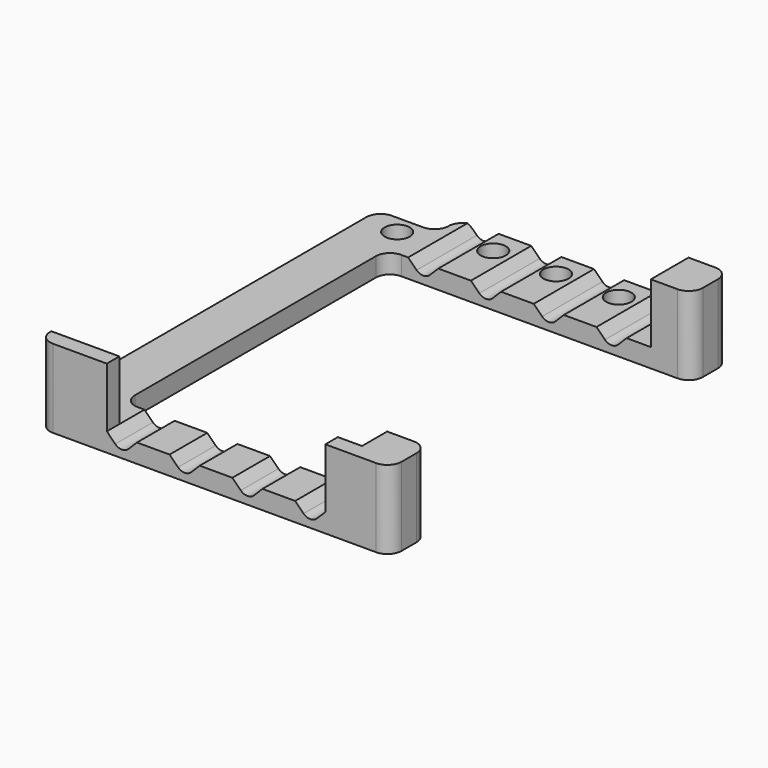
from build123d import *

# Parameters (mm, degrees)
F0_R     = 4
F1_DEPTH = 6
F3_DEPTH = 25
F4_DEPTH = 120.001
F6_DEPTH = 19


with BuildPart() as f1:
    # F0 (on Top) → F1 (new body)
    with BuildSketch(Plane.XY):
        with BuildLine():
            ThreePointArc((93, 139.5), (91.681981, 142.681981), (88.5, 144))
            Line((88.5, 144), (23.5, 144))
            ThreePointArc((23.5, 144), (20.318019, 142.681981), (19, 139.5))
            ThreePointArc((19, 139.5), (17.681981, 136.318019), (14.5, 135))
            Line((14.5, 135), (4.5, 135))
            ThreePointArc((4.5, 135), (1.318019, 133.681981), (0, 130.5))
            Line((0, 130.5), (0, 4.5))
            ThreePointArc((0, 4.5), (1.318019, 1.318019), (4.5, 0))
            Line((4.5, 0), (107.5, 0))
            ThreePointArc((107.5, 0), (110.681981, 1.318019), (112, 4.5))
            Line((112, 4.5), (112, 10.5))
            ThreePointArc((112, 10.5), (110.681981, 13.681981), (107.5, 15))
            Line((107.5, 15), (19.5, 15))
            ThreePointArc((19.5, 15), (16.318019, 16.318019), (15, 19.5))
            Line((15, 19.5), (15, 115.5))
            ThreePointArc((15, 115.5), (16.318019, 118.681981), (19.5, 120))
            Line((19.5, 120), (107.5, 120))
            ThreePointArc((107.5, 120), (110.681981, 121.318019), (112, 124.5))
            Line((112, 124.5), (112, 130.5))
            ThreePointArc((112, 130.5), (110.681981, 133.681981), (107.5, 135))
            Line((107.5, 135), (97.5, 135))
            ThreePointArc((97.5, 135), (94.318019, 136.318019), (93, 139.5))
        make_face()
        with Locations((11, 129)):
            Circle(F0_R, mode=Mode.SUBTRACT)
        with Locations((36, 136)):
            Circle(F0_R, mode=Mode.SUBTRACT)
        with Locations((56, 136)):
            Circle(F0_R, mode=Mode.SUBTRACT)
        with Locations((76, 136)):
            Circle(F0_R, mode=Mode.SUBTRACT)
        with Locations((101, 129)):
            Circle(F0_R, mode=Mode.SUBTRACT)
    extrude(amount=F1_DEPTH)

    # F2 (on face) → F3 (cut)
    with BuildSketch(Plane.XZ.offset(-120)):
        with BuildLine():
            Line((21.7, 7), (21.7, 6))
            Line((21.7, 6), (24.37868, 3.32132))
            ThreePointArc((24.37868, 3.32132), (26.5, 2.442641), (28.62132, 3.32132))
            Line((28.62132, 3.32132), (31.3, 6))
            Line((31.3, 6), (41.7, 6))
            Line((41.7, 6), (44.37868, 3.32132))
            ThreePointArc((44.37868, 3.32132), (46.5, 2.442641), (48.62132, 3.32132))
            Line((48.62132, 3.32132), (51.3, 6))
            Line((51.3, 6), (61.7, 6))
            Line((61.7, 6), (64.37868, 3.32132))
            ThreePointArc((64.37868, 3.32132), (66.5, 2.442641), (68.62132, 3.32132))
            Line((68.62132, 3.32132), (71.3, 6))
            Line((71.3, 6), (81.7, 6))
            Line((81.7, 6), (84.37868, 3.32132))
            ThreePointArc((84.37868, 3.32132), (86.5, 2.442641), (88.62132, 3.32132))
            Line((88.62132, 3.32132), (91.3, 6))
            Line((91.3, 6), (91.3, 7))
            Line((91.3, 7), (21.7, 7))
        make_face()
    extrude(amount=-F3_DEPTH, mode=Mode.SUBTRACT)

    # F2 (on face) → F4 (cut, through all)
    with BuildSketch(Plane.XZ.offset(-120)):
        with BuildLine():
            Line((21.7, 7), (21.7, 6))
            Line((21.7, 6), (24.37868, 3.32132))
            ThreePointArc((24.37868, 3.32132), (26.5, 2.442641), (28.62132, 3.32132))
            Line((28.62132, 3.32132), (31.3, 6))
            Line((31.3, 6), (41.7, 6))
            Line((41.7, 6), (44.37868, 3.32132))
            ThreePointArc((44.37868, 3.32132), (46.5, 2.442641), (48.62132, 3.32132))
            Line((48.62132, 3.32132), (51.3, 6))
            Line((51.3, 6), (61.7, 6))
            Line((61.7, 6), (64.37868, 3.32132))
            ThreePointArc((64.37868, 3.32132), (66.5, 2.442641), (68.62132, 3.32132))
            Line((68.62132, 3.32132), (71.3, 6))
            Line((71.3, 6), (81.7, 6))
            Line((81.7, 6), (84.37868, 3.32132))
            ThreePointArc((84.37868, 3.32132), (86.5, 2.442641), (88.62132, 3.32132))
            Line((88.62132, 3.32132), (91.3, 6))
            Line((91.3, 6), (91.3, 7))
            Line((91.3, 7), (21.7, 7))
        make_face()
    extrude(amount=F4_DEPTH, mode=Mode.SUBTRACT)

    # F5 (on face) → F6 (join)
    with BuildSketch(Plane.XY.offset(6)):
        with BuildLine():
            Line((21.7, 5), (0, 5))
            Line((0, 5), (0, 4.5))
            ThreePointArc((0, 4.5), (1.318019, 1.318019), (4.5, 0))
            Line((4.5, 0), (21.7, 0))
            Line((21.7, 0), (21.7, 5))
        make_face()
        with BuildLine():
            Line((91.3, 5), (91.3, 0))
            Line((91.3, 0), (107.5, 0))
            ThreePointArc((107.5, 0), (110.681981, 1.318019), (112, 4.5))
            Line((112, 4.5), (112, 10.5))
            ThreePointArc((112, 10.5), (110.681981, 13.681981), (107.5, 15))
            Line((107.5, 15), (99, 15))
            Line((99, 15), (99, 5))
            Line((99, 5), (91.3, 5))
        make_face()
        with BuildLine():
            Line((107.5, 135), (99, 135))
            Line((99, 135), (99, 120))
            Line((99, 120), (107.5, 120))
            ThreePointArc((107.5, 120), (110.681981, 121.318019), (112, 124.5))
            Line((112, 124.5), (112, 130.5))
            ThreePointArc((112, 130.5), (110.681981, 133.681981), (107.5, 135))
        make_face()
    extrude(amount=F6_DEPTH)


solid = f1.part
